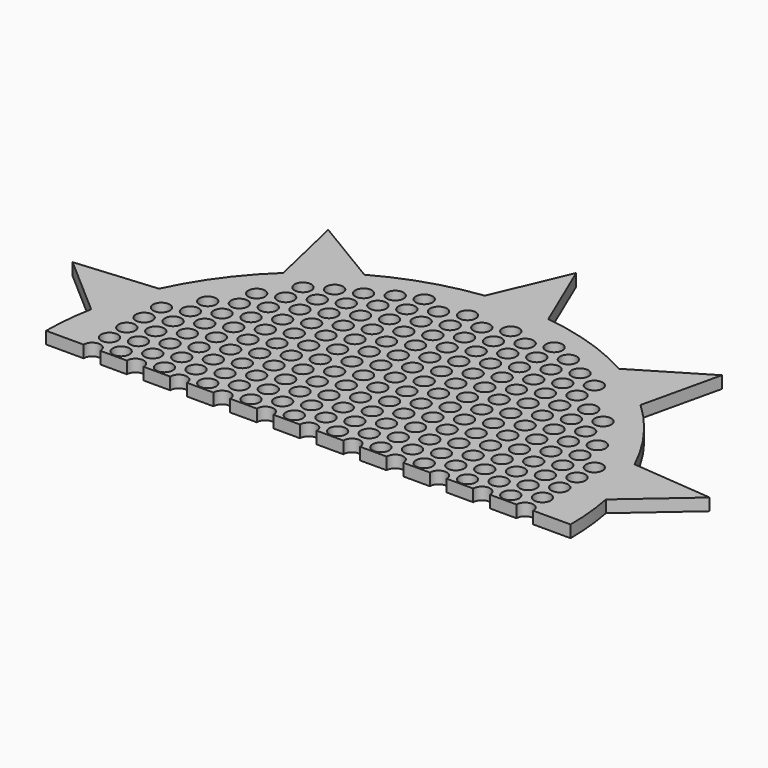
from build123d import *

# Parameters (mm, degrees)
F0_R     = 2.5
F1_DEPTH = 0.127
F3_R     = 0.0875
F4_DEPTH = 0.128
F5_W     = 9.888698
F5_H     = 4.161293
F6_DEPTH = 25


with BuildPart() as f1:
    # F0 (on Top) → F1 (new body)
    with BuildSketch(Plane.XY):
        with BuildLine():
            ThreePointArc((2.698999, -0.527168), (2.73722, -0.264814), (2.75, 0))
            ThreePointArc((2.75, 0), (2.73722, 0.264814), (2.698999, 0.527168))
            ThreePointArc((2.698999, 0.527168), (2.615405, 0.849797), (2.493397, 1.159944))
            ThreePointArc((2.493397, 1.159944), (2.224797, 1.616409), (1.873675, 2.012919))
            ThreePointArc((1.873675, 2.012919), (1.616409, 2.224797), (1.335403, 2.403997))
            ThreePointArc((1.335403, 2.403997), (0.849797, 2.615405), (0.33267, 2.729804))
            ThreePointArc((0.33267, 2.729804), (0, 2.75), (-0.33267, 2.729804))
            ThreePointArc((-0.33267, 2.729804), (-0.849797, 2.615405), (-1.335403, 2.403997))
            ThreePointArc((-1.335403, 2.403997), (-1.616409, 2.224797), (-1.873675, 2.012919))
            ThreePointArc((-1.873675, 2.012919), (-2.224797, 1.616409), (-2.493397, 1.159944))
            ThreePointArc((-2.493397, 1.159944), (-2.615405, 0.849797), (-2.698999, 0.527168))
            ThreePointArc((-2.698999, 0.527168), (-2.75, 0), (-2.698999, -0.527168))
            ThreePointArc((-2.698999, -0.527168), (-2.615405, -0.849797), (-2.493397, -1.159944))
            ThreePointArc((-2.493397, -1.159944), (-2.224797, -1.616409), (-1.873675, -2.012919))
            ThreePointArc((-1.873675, -2.012919), (-1.616409, -2.224797), (-1.335403, -2.403997))
            ThreePointArc((-1.335403, -2.403997), (-0.849797, -2.615405), (-0.33267, -2.729804))
            ThreePointArc((-0.33267, -2.729804), (0, -2.75), (0.33267, -2.729804))
            ThreePointArc((0.33267, -2.729804), (0.849797, -2.615405), (1.335403, -2.403997))
            ThreePointArc((1.335403, -2.403997), (1.616409, -2.224797), (1.873675, -2.012919))
            ThreePointArc((1.873675, -2.012919), (2.224797, -1.616409), (2.493397, -1.159944))
            ThreePointArc((2.493397, -1.159944), (2.615405, -0.849797), (2.698999, -0.527168))
        make_face()
        Circle(F0_R, mode=Mode.SUBTRACT)
        with BuildLine():
            ThreePointArc((2.493397, 1.159944), (2.615405, 0.849797), (2.698999, 0.527168))
            Line((2.698999, 0.527168), (3.34011, 1.085268))
            Line((3.34011, 1.085268), (2.493397, 1.159944))
        make_face()
        with BuildLine():
            Line((3.34011, -1.085268), (2.698999, -0.527168))
            ThreePointArc((2.698999, -0.527168), (2.615405, -0.849797), (2.493397, -1.159944))
            Line((2.493397, -1.159944), (3.34011, -1.085268))
        make_face()
        with BuildLine():
            ThreePointArc((1.335403, 2.403997), (1.616409, 2.224797), (1.873675, 2.012919))
            Line((1.873675, 2.012919), (2.064302, 2.841268))
            Line((2.064302, 2.841268), (1.335403, 2.403997))
        make_face()
        with BuildLine():
            Line((2.064302, -2.841268), (1.873675, -2.012919))
            ThreePointArc((1.873675, -2.012919), (1.616409, -2.224797), (1.335403, -2.403997))
            Line((1.335403, -2.403997), (2.064302, -2.841268))
        make_face()
        with BuildLine():
            ThreePointArc((-0.33267, 2.729804), (0, 2.75), (0.33267, 2.729804))
            Line((0.33267, 2.729804), (0, 3.512))
            Line((0, 3.512), (-0.33267, 2.729804))
        make_face()
        with BuildLine():
            Line((0, -3.512), (0.33267, -2.729804))
            ThreePointArc((0.33267, -2.729804), (0, -2.75), (-0.33267, -2.729804))
            Line((-0.33267, -2.729804), (0, -3.512))
        make_face()
        with BuildLine():
            ThreePointArc((-1.873675, 2.012919), (-1.616409, 2.224797), (-1.335403, 2.403997))
            Line((-1.335403, 2.403997), (-2.064302, 2.841268))
            Line((-2.064302, 2.841268), (-1.873675, 2.012919))
        make_face()
        with BuildLine():
            Line((-2.064302, -2.841268), (-1.335403, -2.403997))
            ThreePointArc((-1.335403, -2.403997), (-1.616409, -2.224797), (-1.873675, -2.012919))
            Line((-1.873675, -2.012919), (-2.064302, -2.841268))
        make_face()
        with BuildLine():
            ThreePointArc((-2.698999, 0.527168), (-2.615405, 0.849797), (-2.493397, 1.159944))
            Line((-2.493397, 1.159944), (-3.34011, 1.085268))
            Line((-3.34011, 1.085268), (-2.698999, 0.527168))
        make_face()
        with BuildLine():
            Line((-3.34011, -1.085268), (-2.493397, -1.159944))
            ThreePointArc((-2.493397, -1.159944), (-2.615405, -0.849797), (-2.698999, -0.527168))
            Line((-2.698999, -0.527168), (-3.34011, -1.085268))
        make_face()
        Circle(F0_R)
    extrude(amount=F1_DEPTH)

    # F3 (on offset) → F4 (cut, through all)
    with BuildSketch(Plane.XY.offset(0.127)):
        with Locations((-2.041752, 1.233616)):
            Circle(F3_R)
        with Locations((-2.041752, 1.006616)):
            Circle(F3_R)
        with Locations((-2.269084, 0.910866)):
            Circle(F3_R)
        with Locations((-2.041752, 0.779616)):
            Circle(F3_R)
        with Locations((-1.587752, 1.914616)):
            Circle(F3_R)
        with Locations((-1.587752, 1.687616)):
            Circle(F3_R)
        with Locations((-1.815084, 1.591866)):
            Circle(F3_R)
        with Locations((-1.587752, 1.460616)):
            Circle(F3_R)
        with Locations((-1.815084, 1.364866)):
            Circle(F3_R)
        with Locations((-1.587752, 1.233616)):
            Circle(F3_R)
        with Locations((-1.815084, 1.137866)):
            Circle(F3_R)
        with Locations((-1.587752, 1.006616)):
            Circle(F3_R)
        with Locations((-1.815084, 0.910866)):
            Circle(F3_R)
        with Locations((-1.587752, 0.779616)):
            Circle(F3_R)
        with Locations((-1.133752, 2.141616)):
            Circle(F3_R)
        with Locations((-1.361084, 2.045866)):
            Circle(F3_R)
        with Locations((-1.133752, 1.914616)):
            Circle(F3_R)
        with Locations((-1.361084, 1.818866)):
            Circle(F3_R)
        with Locations((-1.133752, 1.687616)):
            Circle(F3_R)
        with Locations((-1.361084, 1.591866)):
            Circle(F3_R)
        with Locations((-1.133752, 1.460616)):
            Circle(F3_R)
        with Locations((-1.361084, 1.364866)):
            Circle(F3_R)
        with Locations((-1.133752, 1.233616)):
            Circle(F3_R)
        with Locations((-1.361084, 1.137866)):
            Circle(F3_R)
        with Locations((-1.133752, 1.006616)):
            Circle(F3_R)
        with Locations((-1.361084, 0.910866)):
            Circle(F3_R)
        with Locations((-1.133752, 0.779616)):
            Circle(F3_R)
        with Locations((-0.679752, 2.368616)):
            Circle(F3_R)
        with Locations((-0.907084, 2.272866)):
            Circle(F3_R)
        with Locations((-0.679752, 2.141616)):
            Circle(F3_R)
        with Locations((-0.907084, 2.045866)):
            Circle(F3_R)
        with Locations((-0.679752, 1.914616)):
            Circle(F3_R)
        with Locations((-0.907084, 1.818866)):
            Circle(F3_R)
        with Locations((-0.679752, 1.687616)):
            Circle(F3_R)
        with Locations((-0.907084, 1.591866)):
            Circle(F3_R)
        with Locations((-0.679752, 1.460616)):
            Circle(F3_R)
        with Locations((-0.907084, 1.364866)):
            Circle(F3_R)
        with Locations((-0.679752, 1.233616)):
            Circle(F3_R)
        with Locations((-0.907084, 1.137866)):
            Circle(F3_R)
        with Locations((-0.679752, 1.006616)):
            Circle(F3_R)
        with Locations((-0.907084, 0.910866)):
            Circle(F3_R)
        with Locations((-0.679752, 0.779616)):
            Circle(F3_R)
        with Locations((-0.225752, 2.368616)):
            Circle(F3_R)
        with Locations((-0.453084, 2.272866)):
            Circle(F3_R)
        with Locations((-0.225752, 2.141616)):
            Circle(F3_R)
        with Locations((-0.453084, 2.045866)):
            Circle(F3_R)
        with Locations((-0.225752, 1.914616)):
            Circle(F3_R)
        with Locations((-0.453084, 1.818866)):
            Circle(F3_R)
        with Locations((-0.225752, 1.687616)):
            Circle(F3_R)
        with Locations((-0.453084, 1.591866)):
            Circle(F3_R)
        with Locations((-0.225752, 1.460616)):
            Circle(F3_R)
        with Locations((-0.453084, 1.364866)):
            Circle(F3_R)
        with Locations((-0.225752, 1.233616)):
            Circle(F3_R)
        with Locations((-0.453084, 1.137866)):
            Circle(F3_R)
        with Locations((-0.225752, 1.006616)):
            Circle(F3_R)
        with Locations((-0.453084, 0.910866)):
            Circle(F3_R)
        with Locations((-0.225752, 0.779616)):
            Circle(F3_R)
        with Locations((0.228248, 2.368616)):
            Circle(F3_R)
        with Locations((0.000916, 2.272866)):
            Circle(F3_R)
        with Locations((0.228248, 2.141616)):
            Circle(F3_R)
        with Locations((0.000916, 2.045866)):
            Circle(F3_R)
        with Locations((0.228248, 1.914616)):
            Circle(F3_R)
        with Locations((0.000916, 1.818866)):
            Circle(F3_R)
        with Locations((0.228248, 1.687616)):
            Circle(F3_R)
        with Locations((0.000916, 1.591866)):
            Circle(F3_R)
        with Locations((0.228248, 1.460616)):
            Circle(F3_R)
        with Locations((0.000916, 1.364866)):
            Circle(F3_R)
        with Locations((0.228248, 1.233616)):
            Circle(F3_R)
        with Locations((0.000916, 1.137866)):
            Circle(F3_R)
        with Locations((0.228248, 1.006616)):
            Circle(F3_R)
        with Locations((0.000916, 0.910866)):
            Circle(F3_R)
        with Locations((0.228248, 0.779616)):
            Circle(F3_R)
        with Locations((0.682248, 2.368616)):
            Circle(F3_R)
        with Locations((0.454916, 2.272866)):
            Circle(F3_R)
        with Locations((0.682248, 2.141616)):
            Circle(F3_R)
        with Locations((0.454916, 2.045866)):
            Circle(F3_R)
        with Locations((0.682248, 1.914616)):
            Circle(F3_R)
        with Locations((0.454916, 1.818866)):
            Circle(F3_R)
        with Locations((0.682248, 1.687616)):
            Circle(F3_R)
        with Locations((0.454916, 1.591866)):
            Circle(F3_R)
        with Locations((0.682248, 1.460616)):
            Circle(F3_R)
        with Locations((0.454916, 1.364866)):
            Circle(F3_R)
        with Locations((0.682248, 1.233616)):
            Circle(F3_R)
        with Locations((0.454916, 1.137866)):
            Circle(F3_R)
        with Locations((0.682248, 1.006616)):
            Circle(F3_R)
        with Locations((0.454916, 0.910866)):
            Circle(F3_R)
        with Locations((0.682248, 0.779616)):
            Circle(F3_R)
        with Locations((0.908916, 2.272866)):
            Circle(F3_R)
        with Locations((1.136248, 2.141616)):
            Circle(F3_R)
        with Locations((0.908916, 2.045866)):
            Circle(F3_R)
        with Locations((1.136248, 1.914616)):
            Circle(F3_R)
        with Locations((0.908916, 1.818866)):
            Circle(F3_R)
        with Locations((1.136248, 1.687616)):
            Circle(F3_R)
        with Locations((0.908916, 1.591866)):
            Circle(F3_R)
        with Locations((1.136248, 1.460616)):
            Circle(F3_R)
        with Locations((0.908916, 1.364866)):
            Circle(F3_R)
        with Locations((1.136248, 1.233616)):
            Circle(F3_R)
        with Locations((0.908916, 1.137866)):
            Circle(F3_R)
        with Locations((1.136248, 1.006616)):
            Circle(F3_R)
        with Locations((0.908916, 0.910866)):
            Circle(F3_R)
        with Locations((1.136248, 0.779616)):
            Circle(F3_R)
        with Locations((1.362916, 2.045866)):
            Circle(F3_R)
        with Locations((1.362916, 1.818866)):
            Circle(F3_R)
        with Locations((1.590248, 1.687616)):
            Circle(F3_R)
        with Locations((1.362916, 1.591866)):
            Circle(F3_R)
        with Locations((1.590248, 1.460616)):
            Circle(F3_R)
        with Locations((1.362916, 1.364866)):
            Circle(F3_R)
        with Locations((1.590248, 1.233616)):
            Circle(F3_R)
        with Locations((1.362916, 1.137866)):
            Circle(F3_R)
        with Locations((1.590248, 1.006616)):
            Circle(F3_R)
        with Locations((1.362916, 0.910866)):
            Circle(F3_R)
        with Locations((1.590248, 0.779616)):
            Circle(F3_R)
        with Locations((1.816916, 1.591866)):
            Circle(F3_R)
        with Locations((1.816916, 1.364866)):
            Circle(F3_R)
        with Locations((2.044248, 1.233616)):
            Circle(F3_R)
        with Locations((1.816916, 1.137866)):
            Circle(F3_R)
        with Locations((2.044248, 1.006616)):
            Circle(F3_R)
        with Locations((1.816916, 0.910866)):
            Circle(F3_R)
        with Locations((2.044248, 0.779616)):
            Circle(F3_R)
        with Locations((-2.269084, 0.683866)):
            Circle(F3_R)
        with Locations((-2.041752, 0.552616)):
            Circle(F3_R)
        with Locations((-2.269084, 0.456866)):
            Circle(F3_R)
        with Locations((-2.041752, 0.325616)):
            Circle(F3_R)
        with Locations((-2.269084, 0.229866)):
            Circle(F3_R)
        with Locations((-2.041752, 0.098616)):
            Circle(F3_R)
        with Locations((-2.269084, 0.002866)):
            Circle(F3_R)
        with Locations((-2.041752, -0.128384)):
            Circle(F3_R)
        with Locations((-2.269084, -0.224134)):
            Circle(F3_R)
        with Locations((-2.041752, -0.355384)):
            Circle(F3_R)
        with Locations((-2.269084, -0.451134)):
            Circle(F3_R)
        with Locations((-2.041752, -0.582384)):
            Circle(F3_R)
        with Locations((-2.269084, -0.678134)):
            Circle(F3_R)
        with Locations((-2.041752, -0.809384)):
            Circle(F3_R)
        with Locations((-2.269084, -0.905134)):
            Circle(F3_R)
        with Locations((-2.041752, -1.036384)):
            Circle(F3_R)
        with Locations((-2.041752, -1.263384)):
            Circle(F3_R)
        with Locations((-1.815084, 0.683866)):
            Circle(F3_R)
        with Locations((-1.587752, 0.552616)):
            Circle(F3_R)
        with Locations((-1.815084, 0.456866)):
            Circle(F3_R)
        with Locations((-1.587752, 0.325616)):
            Circle(F3_R)
        with Locations((-1.815084, 0.229866)):
            Circle(F3_R)
        with Locations((-1.587752, 0.098616)):
            Circle(F3_R)
        with Locations((-1.815084, 0.002866)):
            Circle(F3_R)
        with Locations((-1.587752, -0.128384)):
            Circle(F3_R)
        with Locations((-1.815084, -0.224134)):
            Circle(F3_R)
        with Locations((-1.587752, -0.355384)):
            Circle(F3_R)
        with Locations((-1.815084, -0.451134)):
            Circle(F3_R)
        with Locations((-1.587752, -0.582384)):
            Circle(F3_R)
        with Locations((-1.815084, -0.678134)):
            Circle(F3_R)
        with Locations((-1.587752, -0.809384)):
            Circle(F3_R)
        with Locations((-1.815084, -0.905134)):
            Circle(F3_R)
        with Locations((-1.587752, -1.036384)):
            Circle(F3_R)
        with Locations((-1.815084, -1.132134)):
            Circle(F3_R)
        with Locations((-1.587752, -1.263384)):
            Circle(F3_R)
        with Locations((-1.815084, -1.359134)):
            Circle(F3_R)
        with Locations((-1.587752, -1.490384)):
            Circle(F3_R)
        with Locations((-1.815084, -1.586134)):
            Circle(F3_R)
        with Locations((-1.587752, -1.717384)):
            Circle(F3_R)
        with Locations((-1.361084, 0.683866)):
            Circle(F3_R)
        with Locations((-1.133752, 0.552616)):
            Circle(F3_R)
        with Locations((-1.361084, 0.456866)):
            Circle(F3_R)
        with Locations((-1.133752, 0.325616)):
            Circle(F3_R)
        with Locations((-1.361084, 0.229866)):
            Circle(F3_R)
        with Locations((-1.133752, 0.098616)):
            Circle(F3_R)
        with Locations((-1.361084, 0.002866)):
            Circle(F3_R)
        with Locations((-1.133752, -0.128384)):
            Circle(F3_R)
        with Locations((-1.361084, -0.224134)):
            Circle(F3_R)
        with Locations((-1.133752, -0.355384)):
            Circle(F3_R)
        with Locations((-1.361084, -0.451134)):
            Circle(F3_R)
        with Locations((-1.133752, -0.582384)):
            Circle(F3_R)
        with Locations((-1.361084, -0.678134)):
            Circle(F3_R)
        with Locations((-1.133752, -0.809384)):
            Circle(F3_R)
        with Locations((-1.361084, -0.905134)):
            Circle(F3_R)
        with Locations((-1.133752, -1.036384)):
            Circle(F3_R)
        with Locations((-1.361084, -1.132134)):
            Circle(F3_R)
        with Locations((-1.133752, -1.263384)):
            Circle(F3_R)
        with Locations((-1.361084, -1.359134)):
            Circle(F3_R)
        with Locations((-1.133752, -1.490384)):
            Circle(F3_R)
        with Locations((-1.361084, -1.586134)):
            Circle(F3_R)
        with Locations((-1.133752, -1.717384)):
            Circle(F3_R)
        with Locations((-0.907084, 0.683866)):
            Circle(F3_R)
        with Locations((-0.679752, 0.552616)):
            Circle(F3_R)
        with Locations((-0.907084, 0.456866)):
            Circle(F3_R)
        with Locations((-0.679752, 0.325616)):
            Circle(F3_R)
        with Locations((-0.907084, 0.229866)):
            Circle(F3_R)
        with Locations((-0.679752, 0.098616)):
            Circle(F3_R)
        with Locations((-0.907084, 0.002866)):
            Circle(F3_R)
        with Locations((-0.679752, -0.128384)):
            Circle(F3_R)
        with Locations((-0.907084, -0.224134)):
            Circle(F3_R)
        with Locations((-0.679752, -0.355384)):
            Circle(F3_R)
        with Locations((-0.907084, -0.451134)):
            Circle(F3_R)
        with Locations((-0.679752, -0.582384)):
            Circle(F3_R)
        with Locations((-0.907084, -0.678134)):
            Circle(F3_R)
        with Locations((-0.679752, -0.809384)):
            Circle(F3_R)
        with Locations((-0.907084, -0.905134)):
            Circle(F3_R)
        with Locations((-0.679752, -1.036384)):
            Circle(F3_R)
        with Locations((-0.907084, -1.132134)):
            Circle(F3_R)
        with Locations((-0.679752, -1.263384)):
            Circle(F3_R)
        with Locations((-0.907084, -1.359134)):
            Circle(F3_R)
        with Locations((-0.679752, -1.490384)):
            Circle(F3_R)
        with Locations((-0.907084, -1.586134)):
            Circle(F3_R)
        with Locations((-0.679752, -1.717384)):
            Circle(F3_R)
        with Locations((-0.453084, 0.683866)):
            Circle(F3_R)
        with Locations((-0.225752, 0.552616)):
            Circle(F3_R)
        with Locations((-0.453084, 0.456866)):
            Circle(F3_R)
        with Locations((-0.225752, 0.325616)):
            Circle(F3_R)
        with Locations((-0.453084, 0.229866)):
            Circle(F3_R)
        with Locations((-0.225752, 0.098616)):
            Circle(F3_R)
        with Locations((-0.453084, 0.002866)):
            Circle(F3_R)
        with Locations((-0.225752, -0.128384)):
            Circle(F3_R)
        with Locations((-0.453084, -0.224134)):
            Circle(F3_R)
        with Locations((-0.225752, -0.355384)):
            Circle(F3_R)
        with Locations((-0.453084, -0.451134)):
            Circle(F3_R)
        with Locations((-0.225752, -0.582384)):
            Circle(F3_R)
        with Locations((-0.453084, -0.678134)):
            Circle(F3_R)
        with Locations((-0.225752, -0.809384)):
            Circle(F3_R)
        with Locations((-0.453084, -0.905134)):
            Circle(F3_R)
        with Locations((-0.225752, -1.036384)):
            Circle(F3_R)
        with Locations((-0.453084, -1.132134)):
            Circle(F3_R)
        with Locations((-0.225752, -1.263384)):
            Circle(F3_R)
        with Locations((-0.453084, -1.359134)):
            Circle(F3_R)
        with Locations((-0.225752, -1.490384)):
            Circle(F3_R)
        with Locations((-0.453084, -1.586134)):
            Circle(F3_R)
        with Locations((-0.225752, -1.717384)):
            Circle(F3_R)
        with Locations((0.000916, 0.683866)):
            Circle(F3_R)
        with Locations((0.228248, 0.552616)):
            Circle(F3_R)
        with Locations((0.000916, 0.456866)):
            Circle(F3_R)
        with Locations((0.228248, 0.325616)):
            Circle(F3_R)
        with Locations((0.000916, 0.229866)):
            Circle(F3_R)
        with Locations((0.228248, 0.098616)):
            Circle(F3_R)
        with Locations((0.000916, 0.002866)):
            Circle(F3_R)
        with Locations((0.228248, -0.128384)):
            Circle(F3_R)
        with Locations((0.000916, -0.224134)):
            Circle(F3_R)
        with Locations((0.228248, -0.355384)):
            Circle(F3_R)
        with Locations((0.000916, -0.451134)):
            Circle(F3_R)
        with Locations((0.228248, -0.582384)):
            Circle(F3_R)
        with Locations((0.000916, -0.678134)):
            Circle(F3_R)
        with Locations((0.228248, -0.809384)):
            Circle(F3_R)
        with Locations((0.000916, -0.905134)):
            Circle(F3_R)
        with Locations((0.228248, -1.036384)):
            Circle(F3_R)
        with Locations((0.000916, -1.132134)):
            Circle(F3_R)
        with Locations((0.228248, -1.263384)):
            Circle(F3_R)
        with Locations((0.000916, -1.359134)):
            Circle(F3_R)
        with Locations((0.228248, -1.490384)):
            Circle(F3_R)
        with Locations((0.000916, -1.586134)):
            Circle(F3_R)
        with Locations((0.228248, -1.717384)):
            Circle(F3_R)
        with Locations((0.454916, 0.683866)):
            Circle(F3_R)
        with Locations((0.682248, 0.552616)):
            Circle(F3_R)
        with Locations((0.454916, 0.456866)):
            Circle(F3_R)
        with Locations((0.682248, 0.325616)):
            Circle(F3_R)
        with Locations((0.454916, 0.229866)):
            Circle(F3_R)
        with Locations((0.682248, 0.098616)):
            Circle(F3_R)
        with Locations((0.454916, 0.002866)):
            Circle(F3_R)
        with Locations((0.682248, -0.128384)):
            Circle(F3_R)
        with Locations((0.454916, -0.224134)):
            Circle(F3_R)
        with Locations((0.682248, -0.355384)):
            Circle(F3_R)
        with Locations((0.454916, -0.451134)):
            Circle(F3_R)
        with Locations((0.682248, -0.582384)):
            Circle(F3_R)
        with Locations((0.454916, -0.678134)):
            Circle(F3_R)
        with Locations((0.682248, -0.809384)):
            Circle(F3_R)
        with Locations((0.454916, -0.905134)):
            Circle(F3_R)
        with Locations((0.682248, -1.036384)):
            Circle(F3_R)
        with Locations((0.454916, -1.132134)):
            Circle(F3_R)
        with Locations((0.682248, -1.263384)):
            Circle(F3_R)
        with Locations((0.454916, -1.359134)):
            Circle(F3_R)
        with Locations((0.682248, -1.490384)):
            Circle(F3_R)
        with Locations((0.454916, -1.586134)):
            Circle(F3_R)
        with Locations((0.682248, -1.717384)):
            Circle(F3_R)
        with Locations((0.908916, 0.683866)):
            Circle(F3_R)
        with Locations((1.136248, 0.552616)):
            Circle(F3_R)
        with Locations((0.908916, 0.456866)):
            Circle(F3_R)
        with Locations((1.136248, 0.325616)):
            Circle(F3_R)
        with Locations((0.908916, 0.229866)):
            Circle(F3_R)
        with Locations((1.136248, 0.098616)):
            Circle(F3_R)
        with Locations((0.908916, 0.002866)):
            Circle(F3_R)
        with Locations((1.136248, -0.128384)):
            Circle(F3_R)
        with Locations((0.908916, -0.224134)):
            Circle(F3_R)
        with Locations((1.136248, -0.355384)):
            Circle(F3_R)
        with Locations((0.908916, -0.451134)):
            Circle(F3_R)
        with Locations((1.136248, -0.582384)):
            Circle(F3_R)
        with Locations((0.908916, -0.678134)):
            Circle(F3_R)
        with Locations((1.136248, -0.809384)):
            Circle(F3_R)
        with Locations((0.908916, -0.905134)):
            Circle(F3_R)
        with Locations((1.136248, -1.036384)):
            Circle(F3_R)
        with Locations((0.908916, -1.132134)):
            Circle(F3_R)
        with Locations((1.136248, -1.263384)):
            Circle(F3_R)
        with Locations((0.908916, -1.359134)):
            Circle(F3_R)
        with Locations((1.136248, -1.490384)):
            Circle(F3_R)
        with Locations((0.908916, -1.586134)):
            Circle(F3_R)
        with Locations((1.136248, -1.717384)):
            Circle(F3_R)
        with Locations((1.362916, 0.683866)):
            Circle(F3_R)
        with Locations((1.590248, 0.552616)):
            Circle(F3_R)
        with Locations((1.362916, 0.456866)):
            Circle(F3_R)
        with Locations((1.590248, 0.325616)):
            Circle(F3_R)
        with Locations((1.362916, 0.229866)):
            Circle(F3_R)
        with Locations((1.590248, 0.098616)):
            Circle(F3_R)
        with Locations((1.362916, 0.002866)):
            Circle(F3_R)
        with Locations((1.590248, -0.128384)):
            Circle(F3_R)
        with Locations((1.362916, -0.224134)):
            Circle(F3_R)
        with Locations((1.590248, -0.355384)):
            Circle(F3_R)
        with Locations((1.362916, -0.451134)):
            Circle(F3_R)
        with Locations((1.590248, -0.582384)):
            Circle(F3_R)
        with Locations((1.362916, -0.678134)):
            Circle(F3_R)
        with Locations((1.590248, -0.809384)):
            Circle(F3_R)
        with Locations((1.362916, -0.905134)):
            Circle(F3_R)
        with Locations((1.590248, -1.036384)):
            Circle(F3_R)
        with Locations((1.362916, -1.132134)):
            Circle(F3_R)
        with Locations((1.590248, -1.263384)):
            Circle(F3_R)
        with Locations((1.362916, -1.359134)):
            Circle(F3_R)
        with Locations((1.590248, -1.490384)):
            Circle(F3_R)
        with Locations((1.362916, -1.586134)):
            Circle(F3_R)
        with Locations((1.590248, -1.717384)):
            Circle(F3_R)
        with Locations((1.816916, 0.683866)):
            Circle(F3_R)
        with Locations((2.044248, 0.552616)):
            Circle(F3_R)
        with Locations((1.816916, 0.456866)):
            Circle(F3_R)
        with Locations((2.044248, 0.325616)):
            Circle(F3_R)
        with Locations((1.816916, 0.229866)):
            Circle(F3_R)
        with Locations((2.044248, 0.098616)):
            Circle(F3_R)
        with Locations((1.816916, 0.002866)):
            Circle(F3_R)
        with Locations((2.044248, -0.128384)):
            Circle(F3_R)
        with Locations((1.816916, -0.224134)):
            Circle(F3_R)
        with Locations((2.044248, -0.355384)):
            Circle(F3_R)
        with Locations((1.816916, -0.451134)):
            Circle(F3_R)
        with Locations((2.044248, -0.582384)):
            Circle(F3_R)
        with Locations((1.816916, -0.678134)):
            Circle(F3_R)
        with Locations((2.044248, -0.809384)):
            Circle(F3_R)
        with Locations((1.816916, -0.905134)):
            Circle(F3_R)
        with Locations((2.044248, -1.036384)):
            Circle(F3_R)
        with Locations((1.816916, -1.132134)):
            Circle(F3_R)
        with Locations((2.044248, -1.263384)):
            Circle(F3_R)
        with Locations((1.816916, -1.359134)):
            Circle(F3_R)
        with Locations((1.816916, -1.586134)):
            Circle(F3_R)
        with Locations((2.270916, 0.910866)):
            Circle(F3_R)
        with Locations((2.270916, 0.683866)):
            Circle(F3_R)
        with Locations((2.270916, 0.456866)):
            Circle(F3_R)
        with Locations((2.270916, 0.229866)):
            Circle(F3_R)
        with Locations((2.270916, 0.002866)):
            Circle(F3_R)
        with Locations((2.270916, -0.224134)):
            Circle(F3_R)
        with Locations((2.270916, -0.451134)):
            Circle(F3_R)
        with Locations((2.270916, -0.678134)):
            Circle(F3_R)
        with Locations((2.270916, -0.905134)):
            Circle(F3_R)
        with Locations((-1.361084, -1.813134)):
            Circle(F3_R)
        with Locations((-1.133752, -1.944384)):
            Circle(F3_R)
        with Locations((-1.361084, -2.040134)):
            Circle(F3_R)
        with Locations((-1.133752, -2.171384)):
            Circle(F3_R)
        with Locations((-0.907084, -1.813134)):
            Circle(F3_R)
        with Locations((-0.679752, -1.944384)):
            Circle(F3_R)
        with Locations((-0.907084, -2.040134)):
            Circle(F3_R)
        with Locations((-0.679752, -2.171384)):
            Circle(F3_R)
        with Locations((-0.907084, -2.267134)):
            Circle(F3_R)
        with Locations((-0.453084, -1.813134)):
            Circle(F3_R)
        with Locations((-0.225752, -1.944384)):
            Circle(F3_R)
        with Locations((-0.453084, -2.040134)):
            Circle(F3_R)
        with Locations((-0.225752, -2.171384)):
            Circle(F3_R)
        with Locations((-0.453084, -2.267134)):
            Circle(F3_R)
        with Locations((-0.225752, -2.398384)):
            Circle(F3_R)
        with Locations((0.000916, -1.813134)):
            Circle(F3_R)
        with Locations((0.228248, -1.944384)):
            Circle(F3_R)
        with Locations((0.000916, -2.040134)):
            Circle(F3_R)
        with Locations((0.228248, -2.171384)):
            Circle(F3_R)
        with Locations((0.000916, -2.267134)):
            Circle(F3_R)
        with Locations((0.228248, -2.398384)):
            Circle(F3_R)
        with Locations((0.454916, -1.813134)):
            Circle(F3_R)
        with Locations((0.682248, -1.944384)):
            Circle(F3_R)
        with Locations((0.454916, -2.040134)):
            Circle(F3_R)
        with Locations((0.682248, -2.171384)):
            Circle(F3_R)
        with Locations((0.454916, -2.267134)):
            Circle(F3_R)
        with Locations((0.908916, -1.813134)):
            Circle(F3_R)
        with Locations((1.136248, -1.944384)):
            Circle(F3_R)
        with Locations((0.908916, -2.040134)):
            Circle(F3_R)
        with Locations((1.136248, -2.171384)):
            Circle(F3_R)
        with Locations((0.908916, -2.267134)):
            Circle(F3_R)
        with Locations((1.362916, -1.813134)):
            Circle(F3_R)
        with Locations((1.362916, -2.040134)):
            Circle(F3_R)
    extrude(amount=-F4_DEPTH, mode=Mode.SUBTRACT)

    # F5 (on face) → F6 (cut)
    with BuildSketch(Plane.XY.offset(0.127)):
        with Locations((0.017517, -2.080646)):
            Rectangle(F5_W, F5_H)
    extrude(amount=-F6_DEPTH, mode=Mode.SUBTRACT)


solid = f1.part
